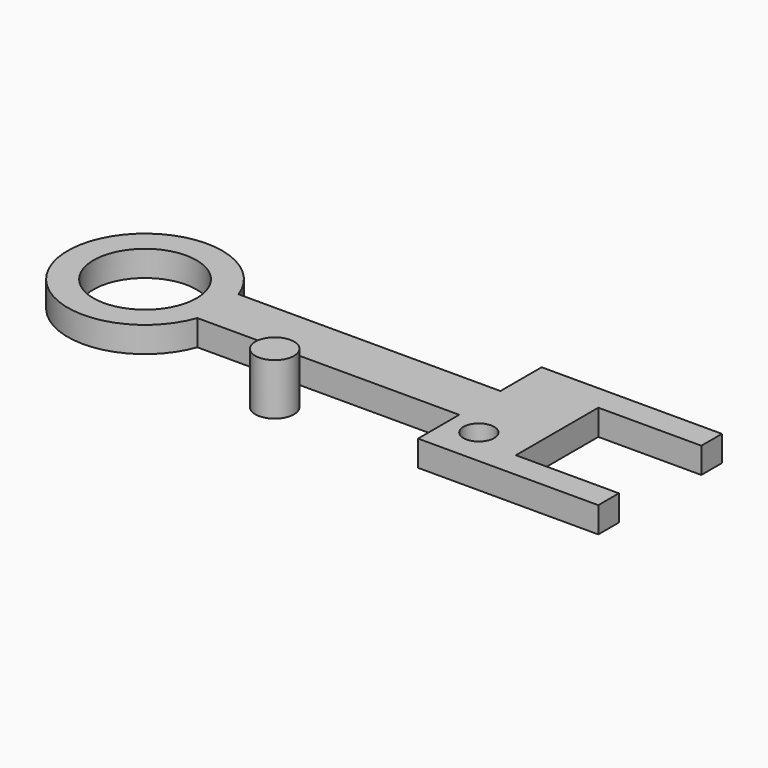
from build123d import *

# Parameters (mm, degrees)
F0_R        = 25.4
F0_R_2      = 9.525
F1_DEPTH    = 25.4
F2_R        = 7.569296
F3_DEPTH    = 25.4
F1_FACE_R   = 7.569296
F1_FACE_R_2 = 25.4
F4_DEPTH    = 12.7


with BuildPart() as f1:
    # F0 (on Top) → F1 (new body)
    with BuildSketch(Plane.XY):
        with BuildLine():
            ThreePointArc((35.921024, -12.7), (37.551305, -6.442785), (38.1, 0))
            ThreePointArc((38.1, 0), (37.551305, 6.442785), (35.921024, 12.7))
            ThreePointArc((35.921024, 12.7), (-38.1, 0), (35.921024, -12.7))
        make_face()
        Circle(F0_R, mode=Mode.SUBTRACT)
        with BuildLine():
            ThreePointArc((35.921024, 12.7), (37.551305, 6.442785), (38.1, 0))
            ThreePointArc((38.1, 0), (37.551305, -6.442785), (35.921024, -12.7))
            Line((35.921024, -12.7), (165.1, -12.7))
            Line((165.1, -12.7), (165.1, -38.1))
            Line((165.1, -38.1), (254, -38.1))
            Line((254, -38.1), (254, -25.4))
            Line((254, -25.4), (203.2, -25.4))
            Line((203.2, -25.4), (203.2, 25.4))
            Line((203.2, 25.4), (254, 25.4))
            Line((254, 25.4), (254, 38.1))
            Line((254, 38.1), (165.1, 38.1))
            Line((165.1, 38.1), (165.1, 12.7))
            Line((165.1, 12.7), (35.921024, 12.7))
        make_face()
        with Locations((90.443961, -33.119742)):
            Circle(F0_R_2)
    extrude(amount=F1_DEPTH)

    # F2 (on face) → F3 (cut)
    with BuildSketch(Plane.XY.offset(25.4)):
        with Locations((180.186421, -19.476419)):
            Circle(F2_R)
    extrude(amount=-F3_DEPTH, mode=Mode.SUBTRACT)

    # F2 (on face) + F1_face (on face) → F4 (cut, symmetric)
    with BuildSketch(Plane.XY.offset(25.4)):
        with Locations((180.186421, 19.476419)):
            Circle(F2_R)
        with Locations((180.186421, -19.476419)):
            Circle(F2_R)
    with BuildSketch(Plane(origin=(116.137443, 0, 25.4), x_dir=(1, 0, 0), z_dir=(0, 0, 1))):
        with BuildLine():
            ThreePointArc((-80.216419, 12.7), (-154.237443, 0), (-80.216419, -12.7))
            Line((-80.216419, -12.7), (48.962557, -12.7))
            Line((48.962557, -12.7), (48.962557, -38.1))
            Line((48.962557, -38.1), (137.862557, -38.1))
            Line((137.862557, -38.1), (137.862557, -25.4))
            Line((137.862557, -25.4), (87.062557, -25.4))
            Line((87.062557, -25.4), (87.062557, 25.4))
            Line((87.062557, 25.4), (137.862557, 25.4))
            Line((137.862557, 25.4), (137.862557, 38.1))
            Line((137.862557, 38.1), (48.962557, 38.1))
            Line((48.962557, 38.1), (48.962557, 12.7))
            Line((48.962557, 12.7), (-80.216419, 12.7))
        make_face()
        with Locations((64.048978, -19.476419)):
            Circle(F1_FACE_R, mode=Mode.SUBTRACT)
        with Locations((-116.137443, 0)):
            Circle(F1_FACE_R_2, mode=Mode.SUBTRACT)
    extrude(amount=F4_DEPTH, both=True, mode=Mode.SUBTRACT)


solid = f1.part
